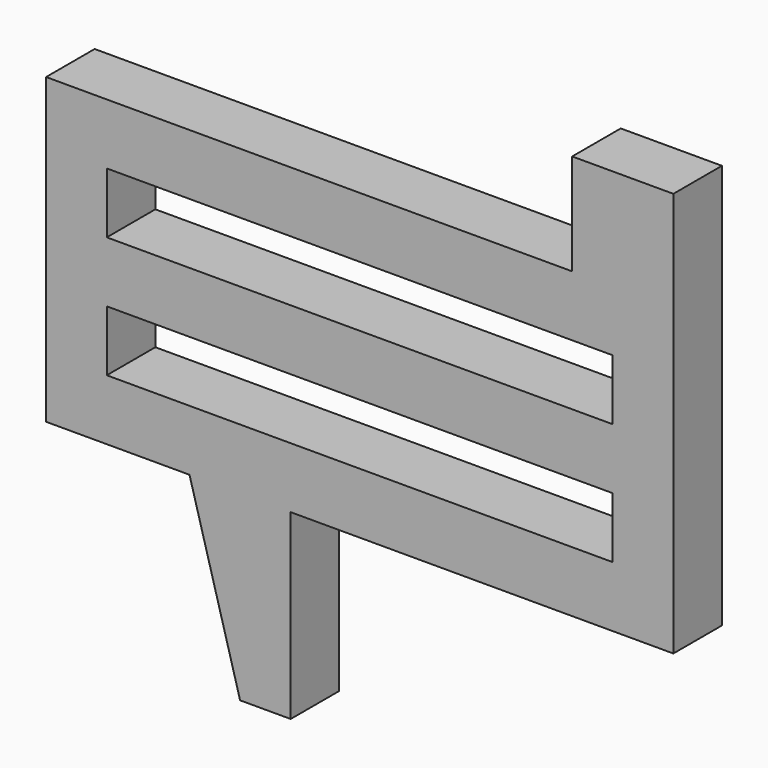
from build123d import *

# Parameters (mm, degrees)
F0_W     = 25
F0_H     = 3
F0_W_2   = 5
F0_H_2   = 5
F0_H_3   = 9
F1_DEPTH = 3
F3_DEPTH = 25


with BuildPart() as f1:
    # F0 (on Front) → F1 (new body)
    with BuildSketch(Plane.XZ):
        Polygon((15.5, -7.5), (15.5, 7.5), (10.5, 7.5), (-15.5, 7.5), (-15.5, -7.5), (-8.411609, -7.5), (-3.411609, -7.5), align=None)
        with Locations((0, -3)):
            Rectangle(F0_W, F0_H, mode=Mode.SUBTRACT)
        with Locations((0, 3)):
            Rectangle(F0_W, F0_H, mode=Mode.SUBTRACT)
        with Locations((13, 10)):
            Rectangle(F0_W_2, F0_H_2)
        with Locations((-5.911609, -12)):
            Rectangle(F0_W_2, F0_H_3)
    extrude(amount=F1_DEPTH)

    # F2 (on face) → F3 (cut)
    with BuildSketch(Plane.XZ.offset(3)):
        Polygon((-5.911609, -16.5), (-8.411609, -7.5), (-8.411609, -16.5), align=None)
    extrude(amount=-F3_DEPTH, mode=Mode.SUBTRACT)


solid = f1.part
